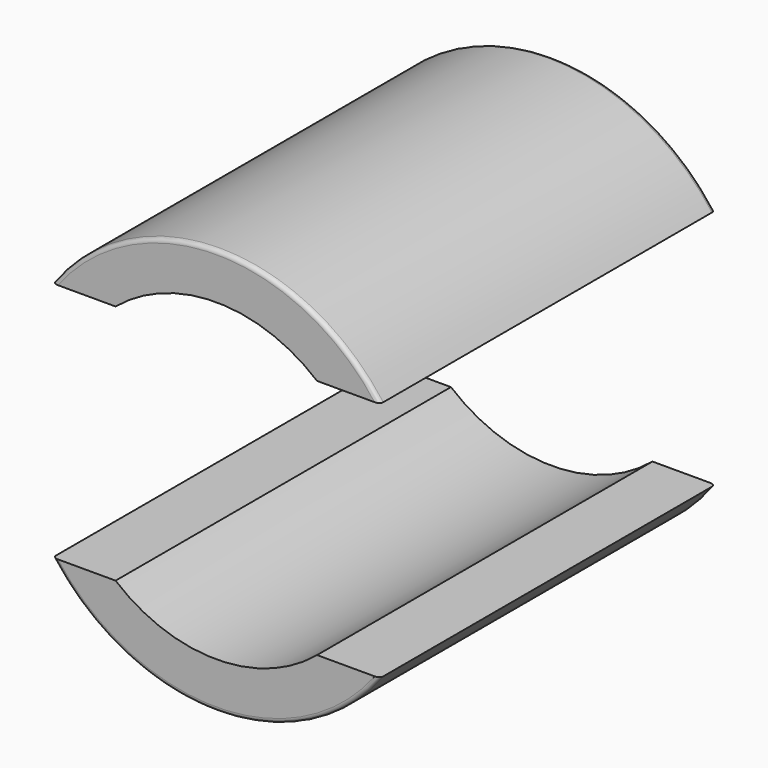
from build123d import *

# Parameters (mm, degrees)
F0_R     = 12.319
F1_DEPTH = 25.4
F3_DEPTH = 25.4
F5_R     = 0.254
F5_2_R   = 0.254


with BuildPart() as f1:
    # F0 (on Front) → F1 (new body)
    with BuildSketch(Plane.XZ):
        Circle(F0_R)
    extrude(amount=F1_DEPTH)

    # F2 (on face) → F3 (intersect)
    with BuildSketch(Plane.XZ.offset(25.4)):
        with BuildLine():
            Line((6.1044666667, 7.3117105875), (9.9144666667, 7.3117105875))
            ThreePointArc((9.9144666667, 7.3117105875), (0, 12.319), (-9.9144666667, 7.3117105875))
            Line((-9.9144666667, 7.3117105875), (-6.1044666667, 7.3117105875))
            ThreePointArc((-6.1044666667, 7.3117105875), (0, 9.525), (6.1044666667, 7.3117105875))
        make_face()
    extrude(amount=-F3_DEPTH, mode=Mode.INTERSECT)


with BuildPart() as f4_1:
    # F4: instance of F1
    add(f1.part.mirror(Plane.XY))

    # F5#2
    f5_2_edges = [f4_1.edges().sort_by_distance(p)[0] for p in [
        (0, -25.4, -12.319),
        (0, 0, -12.319),
    ]]
    fillet(f5_2_edges, radius=F5_2_R)


with BuildPart() as f1_1:
    add(f1.part)

    # F5
    f5_edges = [f1_1.edges().sort_by_distance(p)[0] for p in [
        (0, -25.4, 12.319),
        (0, 0, 12.319),
    ]]
    fillet(f5_edges, radius=F5_R)


solid = Compound([f4_1.part, f1_1.part])
